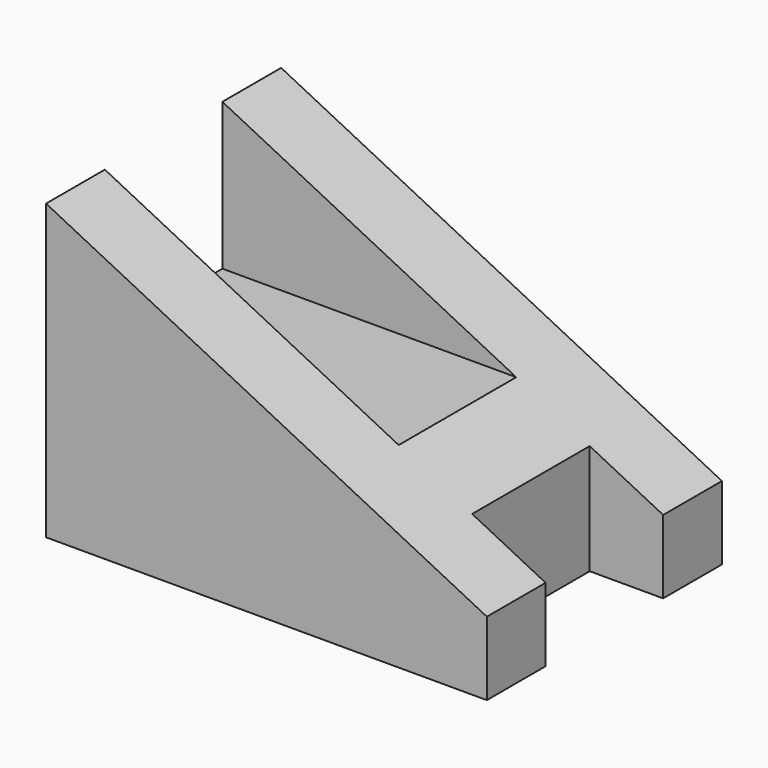
from build123d import *

# Parameters (mm, degrees)
F1_DEPTH = 10
F2_DEPTH = 5


with BuildPart() as f1:
    # F0 (on Front) → F1 (new body, symmetric)
    with BuildSketch(Plane.XZ):
        Polygon((0, 20), (0, 10), (20, 10), align=None)
        Polygon((0, 10), (0, 0), (25, 0), (25, 7.5), (20, 10), align=None)
        Polygon((25, 7.5), (25, 0), (30, 0), (30, 5), align=None)
    extrude(amount=F1_DEPTH, both=True)

    # F0 (on Front) → F2 (cut, symmetric)
    with BuildSketch(Plane.XZ):
        Polygon((0, 20), (0, 10), (20, 10), align=None)
        Polygon((25, 7.5), (25, 0), (30, 0), (30, 5), align=None)
    extrude(amount=F2_DEPTH, both=True, mode=Mode.SUBTRACT)


solid = f1.part
